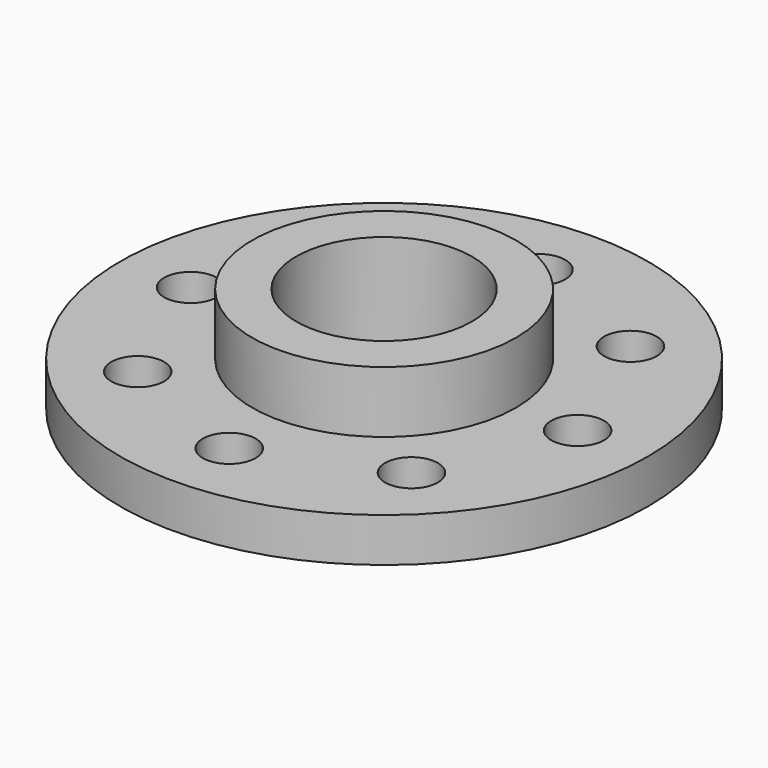
from build123d import *

# Parameters (mm, degrees)
CYLINDER003_R     = 3
CYLINDER003_DEPTH = 10
ARRAY001_COUNT    = 8
CYLINDER002_R     = 10
CYLINDER002_DEPTH = 30
CYLINDER001_R     = 15
CYLINDER001_DEPTH = 12
CYLINDER_R        = 30
CYLINDER_DEPTH    = 5


with BuildPart() as array001:
    # Cylinder003 → Cylinder003 (new body)
    with BuildSketch(Plane(origin=(22, 0, -1), x_dir=(1, 0, 0), z_dir=(0, 0, 1))):
        Circle(CYLINDER003_R)
    extrude(amount=CYLINDER003_DEPTH)

    # Array001: Array001 ×8 about axis
    array001_axis = Axis((0, 0, 0), (0, 0, 1))


with BuildPart() as array001_1:
    add(array001.part)
    for i in range(1, ARRAY001_COUNT):
        add(array001.part.rotate(array001_axis, i * 360 / ARRAY001_COUNT))


with BuildPart() as brida_sin_taladros001:
    # Cylinder002 → Cylinder002 (new body)
    with BuildSketch(Plane.XY.offset(-1)):
        Circle(CYLINDER002_R)
    extrude(amount=CYLINDER002_DEPTH)


with BuildPart() as tub_exterior:
    # Cylinder001 → Cylinder001 (new body)
    with BuildSketch(Plane.XY):
        Circle(CYLINDER001_R)
    extrude(amount=CYLINDER001_DEPTH)


with BuildPart() as cut001:
    # Cylinder → Cylinder (new body)
    with BuildSketch(Plane.XY):
        Circle(CYLINDER_R)
    extrude(amount=CYLINDER_DEPTH)

    # Fusion: union tub exterior
    add(tub_exterior.part)

    # Cut: cut brida sin taladros001
    add(brida_sin_taladros001.part, mode=Mode.SUBTRACT)

    # Cut001: cut Array001
    add(array001_1.part, mode=Mode.SUBTRACT)


solid = cut001.part
